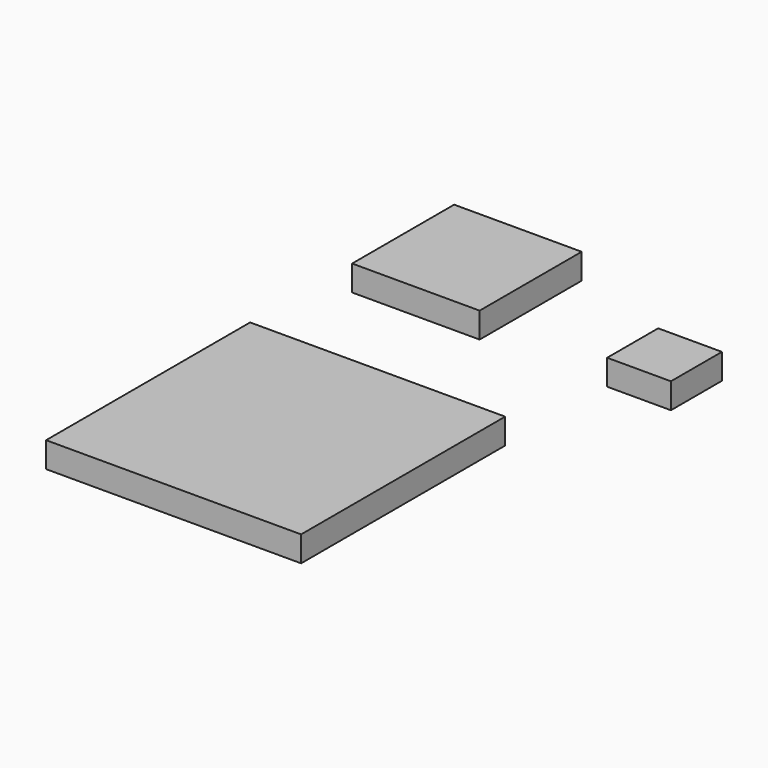
from build123d import *

# Parameters (mm, degrees)
F0_W     = 10
F0_H     = 10
F0_W_2   = 20
F0_H_2   = 20
F0_W_3   = 40
F0_H_3   = 40
F1_DEPTH = 4


with BuildPart() as f1:
    # F0 (on Top) → F1 (new body)
    with BuildSketch(Plane.XY):
        with Locations((5, 5)):
            Rectangle(F0_W, F0_H)
        with Locations((-30, 10)):
            Rectangle(F0_W_2, F0_H_2)
        with Locations((-20, -40)):
            Rectangle(F0_W_3, F0_H_3)
    extrude(amount=F1_DEPTH)


solid = f1.part
